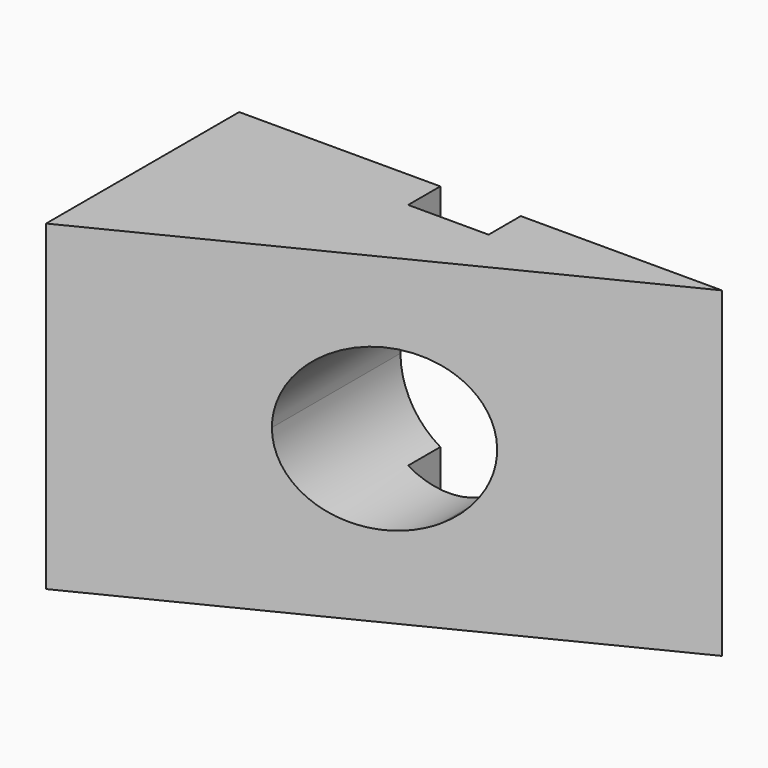
from build123d import *

# Parameters (mm, degrees)
F1_DEPTH = 101.6
F2_W     = 25.4
F2_H     = 101.6
F3_DEPTH = 12.7
F5_DEPTH = 76.201


with BuildPart() as f1:
    # F0 (on Top) → F1 (new body)
    with BuildSketch(Plane.XY):
        Polygon((0, 76.2), (0, 0), (152.4, 76.2), align=None)
    extrude(amount=-F1_DEPTH)

    # F2 (on face) → F3 (cut)
    with BuildSketch(Plane(origin=(0, 76.2, 0), x_dir=(-1, 0, 0), z_dir=(0, 1, 0))):
        with Locations((-76.2, -50.8)):
            Rectangle(F2_W, F2_H)
    extrude(amount=-F3_DEPTH, mode=Mode.SUBTRACT)

    # F4 (on face) → F5 (cut, through all)
    with BuildSketch(Plane(origin=(0, 76.2, 0), x_dir=(-1, 0, 0), z_dir=(0, 1, 0))):
        with BuildLine():
            ThreePointArc((-88.9, -72.5728585247), (-63.5591417828, -72.4710526239), (-50.9180106878, -50.5081005394))
            ThreePointArc((-50.9180106878, -50.5081005394), (-63.5591417828, -28.545148455), (-88.9, -28.4433425542))
            Line((-88.9, -28.4433425542), (-88.9, -72.5728585247))
        make_face()
        with BuildLine():
            Line((-88.9, -72.5728585247), (-88.9, -28.4433425542))
            ThreePointArc((-88.9, -28.4433425542), (-101.7180106878, -50.5081005394), (-88.9, -72.5728585247))
        make_face()
    extrude(amount=-F5_DEPTH, mode=Mode.SUBTRACT)


solid = f1.part
